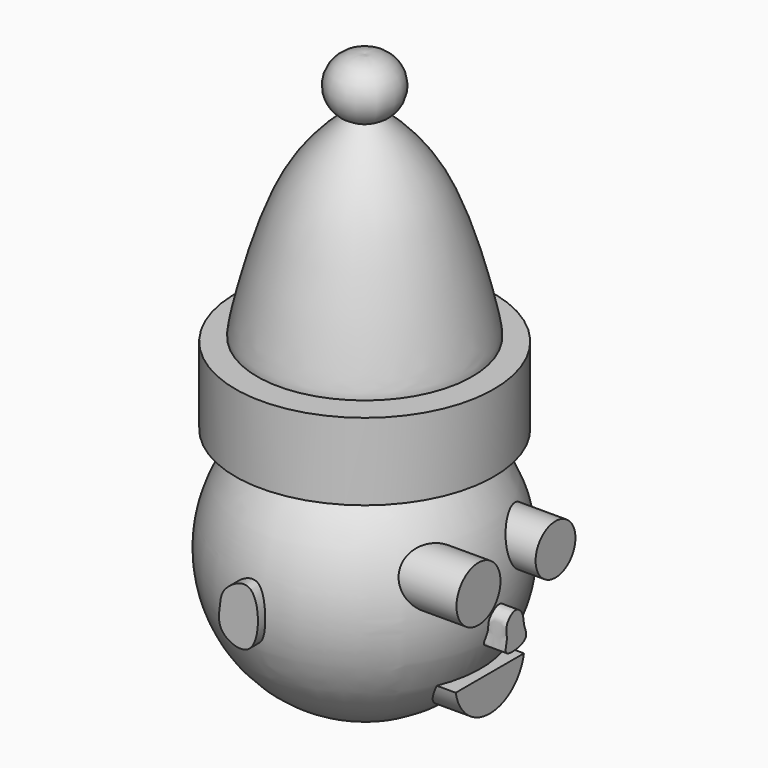
from build123d import *

# Parameters (mm, degrees)
F2_W      = 13.5268690065
F2_H      = 8.0585614778
F8_R      = 2.8780583292
F9_DEPTH  = 16.51
F10_R     = 2.6061913128
F11_DEPTH = 16.51
F13_DEPTH = 14.986
F15_DEPTH = 14.732
F17_DEPTH = 15.748
F19_DEPTH = 13.208


with BuildPart() as f1:
    # F0 (on Right) → F1 (revolve)
    with BuildSketch(Plane.YZ):
        with BuildLine():
            Line((0, 0), (0, -28.7805777043))
            ThreePointArc((0, -28.7805777043), (14.0620312137, -14.3902888522), (0, 0))
        make_face()
    revolve(axis=Axis((0, 0, 12.2317429632), (0, 0, -1)))

    # F2 (on Right) → F3 (revolve)
    with BuildSketch(Plane.YZ):
        with Locations((6.7634345032, 0.5756116007)):
            Rectangle(F2_W, F2_H)
    revolve(axis=Axis((0, 0, 0.5756116007), (0, 0, 1)))

    # F8 (on Right) → F9 (join)
    with BuildSketch(Plane.YZ):
        with Locations((-5.7561146095, -10.9366187826)):
            Circle(F8_R)
    extrude(amount=F9_DEPTH)

    # F10 (on Right) → F11 (join)
    with BuildSketch(Plane.YZ):
        with Locations((4.3170871213, -10.9366187826)):
            Circle(F10_R)
    extrude(amount=F11_DEPTH)

    # F12 (on Front) → F13 (join)
    with BuildSketch(Plane.XZ):
        with BuildLine():
            add(Edge.make_bspline(
                [(0, -12.0878415182), (-0.753203102, -11.4929271982), (-3.0348994339, -12.8815148406), (-3.1162231852, -14.6239672022), (-3.5805017983, -17.2667019547), (1.167711163, -19.1055018188), (1.0659288966, -12.9297609992), (0, -12.0878415182)],
                knots=[0, 0, 0, 0, 0.1926647491, 0.3499748178, 0.5275858541, 0.7273419043, 1, 1, 1, 1], degree=3))
        make_face()
    extrude(amount=F13_DEPTH)

    # F14 (on Front) → F15 (join)
    with BuildSketch(Plane.XZ):
        with BuildLine():
            add(Edge.make_bspline(
                [(0, -11.5168010816), (-0.7057644421, -10.9241602439), (-2.9049828976, -13.0716604756), (-3.362813018, -15.2047011171), (-2.778972758, -17.0861187583), (1.0871759593, -20.4691077425), (1.0767999334, -12.4210059075), (0, -11.5168010816)],
                knots=[0, 0, 0, 0, 0.1916690002, 0.3616322047, 0.522928698, 0.707566499, 1, 1, 1, 1], degree=3))
        make_face()
    extrude(amount=-F15_DEPTH)

    # F16 (on Right) → F17 (join)
    with BuildSketch(Plane.YZ):
        with BuildLine():
            add(Edge.make_bspline(
                [(0, -15.0420740247), (0.4127383988, -15.0243259489), (1.1701243188, -15.7596756721), (1.0263640729, -16.946055974), (2.0173001094, -18.4988135296), (-1.7764316329, -19.0487696649), (-0.876972938, -17.2563878576), (-1.4357598509, -16.0145180613), (-0.4565542936, -15.0617062184), (0, -15.0420740247)],
                knots=[0, 0, 0, 0, 0.1313334069, 0.2645606523, 0.3968164529, 0.5844305615, 0.7163578752, 0.8547243703, 1, 1, 1, 1], degree=3))
        make_face()
    extrude(amount=F17_DEPTH)

    # F18 (on Right) → F19 (join)
    with BuildSketch(Plane.YZ):
        with BuildLine():
            Line((4.3170871213, -21.5854328126), (-4.6048923396, -21.5854328126))
            ThreePointArc((-4.6048923396, -21.5854328126), (-0.1439026091, -25.3246228877), (4.3170871213, -21.5854328126))
        make_face()
    extrude(amount=F19_DEPTH)


with BuildPart() as f5:
    # F4 (on Right) → F5 (revolve)
    with BuildSketch(Plane.YZ):
        with BuildLine():
            add(Edge.make_bspline(
                [(0, 27.0537417382), (1.4990844054, 25.7770147245), (4.7426244289, 23.014585102), (8.6587842996, 16.9863522847), (11.2557401363, 6.0655481407), (11.2504374501, 5.1131180242), (11.2410618975, 5.0151110379)],
                knots=[0, 0, 0, 0, 0.260238708, 0.5630734748, 0.9187513192, 0.9743701295, 0.9743701295, 0.9743701295, 0.9743701295], degree=3))
            Line((0, 27.0537417382), (0, 4.8926980235))
            Line((0, 4.8926980235), (11.2410618975, 5.0151110379))
        make_face()
    revolve(axis=Axis((0, 0, 15.9732198808), (0, 0, -1)))

    # F6 (on Right) → F7 (revolve)
    with BuildSketch(Plane.YZ):
        with BuildLine():
            Line((0, 31.0830231756), (0, 25.3269076347))
            ThreePointArc((0, 25.3269076347), (3.5106672239, 28.2049654052), (0, 31.0830231756))
        make_face()
    revolve(axis=Axis((0, 0, 28.2049654052), (0, 0, -1)))


solid = Compound([f1.part, f5.part])
